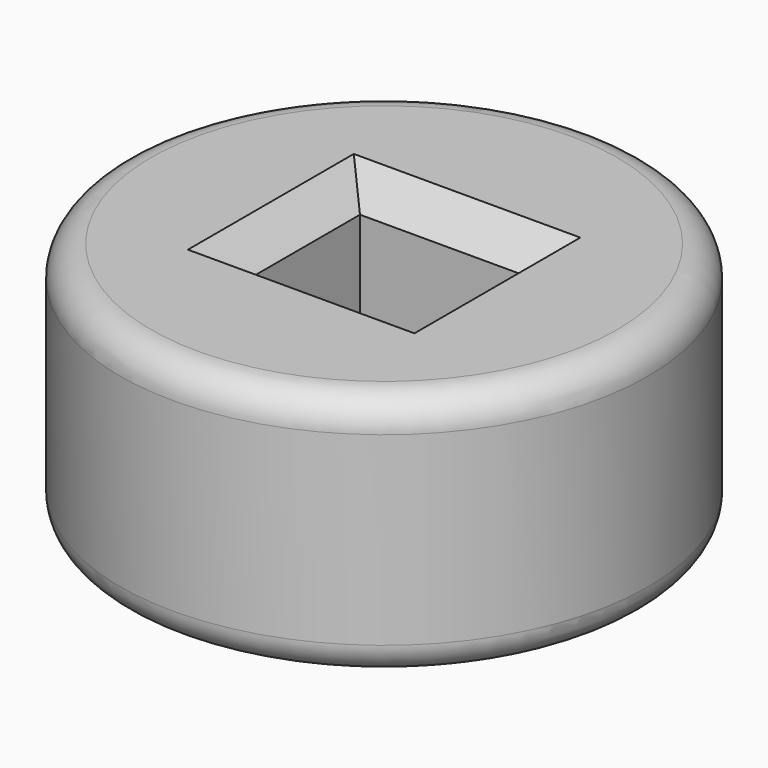
from build123d import *

# Parameters (mm, degrees)
F0_R     = 42.723605
F1_DEPTH = 40
F2_W     = 26.663388
F2_H     = 23.562994
F3_DEPTH = 40.001
F4_SIZE  = 5
F5_R     = 5
F6_R     = 5


with BuildPart() as f1:
    # F0 (on Top) → F1 (new body)
    with BuildSketch(Plane.XY):
        Circle(F0_R)
    extrude(amount=F1_DEPTH)

    # F2 (on Top) → F3 (cut, through all)
    with BuildSketch(Plane.XY):
        Rectangle(F2_W, F2_H)
    extrude(amount=F3_DEPTH, mode=Mode.SUBTRACT)

    # F4
    f4_edges = [f1.edges().sort_by_distance(p)[0] for p in [
        (0, 11.781497, 40),
        (13.331694, 0, 40),
        (-13.331694, 0, 40),
        (0, -11.781497, 40),
    ]]
    chamfer(f4_edges, length=F4_SIZE)

    # F5
    f5_edges = [f1.edges().sort_by_distance(p)[0] for p in [
        (-42.723605, 0, 40),
    ]]
    fillet(f5_edges, radius=F5_R)

    # F6
    f6_edges = [f1.edges().sort_by_distance(p)[0] for p in [
        (-42.723605, 0, 0),
    ]]
    fillet(f6_edges, radius=F6_R)


solid = f1.part
